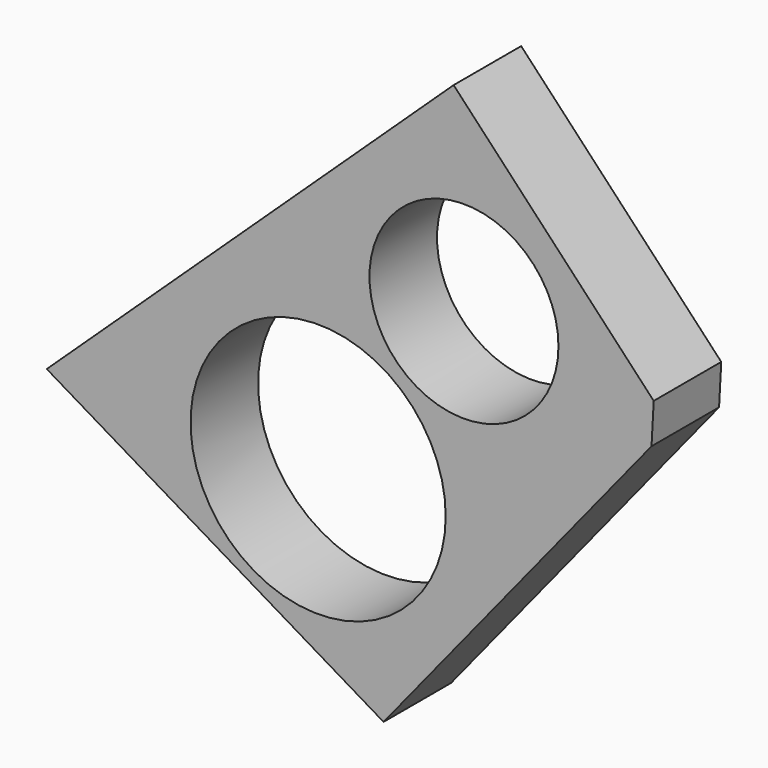
from build123d import *

# Parameters (mm, degrees)
F0_R     = 342.9
F0_R_2   = 254
F1_DEPTH = 226.939695


with BuildPart() as f1:
    # F0 (on Front) → F1 (new body)
    with BuildSketch(Plane.XZ):
        Polygon((364.206745, 1027.523371), (-729.422957, 0), (175.949275, -540.677786), (896.169722, 345.845073), (902.013715, 455.116268), align=None)
        Circle(F0_R, mode=Mode.SUBTRACT)
        with Locations((392.001907, 501.148325)):
            Circle(F0_R_2, mode=Mode.SUBTRACT)
    extrude(amount=F1_DEPTH)


solid = f1.part
